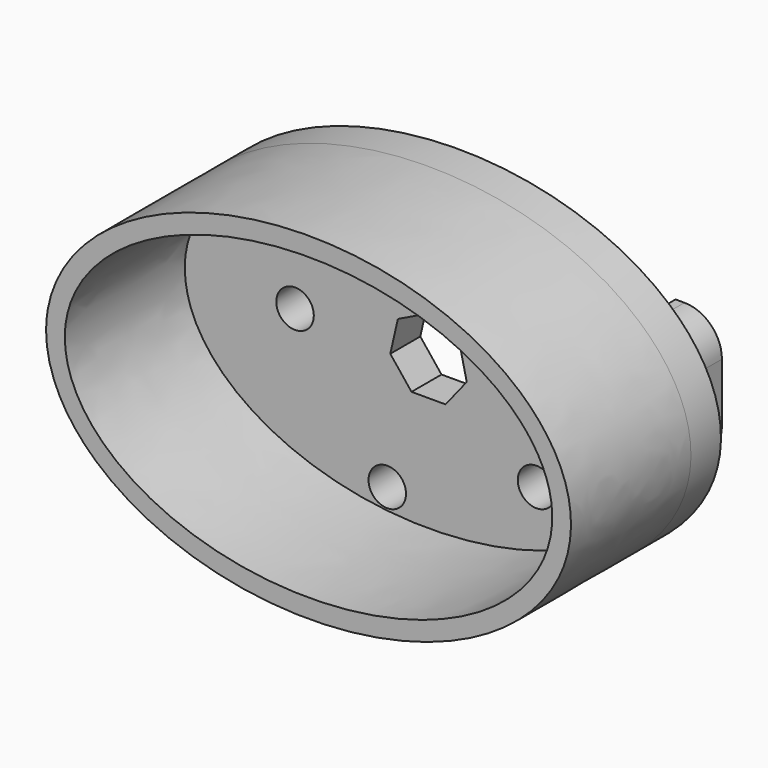
from build123d import *

# Parameters (mm, degrees)
F1_DEPTH  = 5
F3_DEPTH  = 20
F4_R      = 2.5
F6_DEPTH  = 25.0010001
F8_DEPTH  = 25.0010001
F10_DEPTH = 8


with BuildPart() as f1:
    # F0 (on Front) → F1 (new body)
    with BuildSketch(Plane.XZ):
        with BuildLine():
            add(Edge.make_bspline(
                [(-35, 0), (-35, -38.9711431703), (17.5, -19.4855715851), (70, 0), (17.5, 19.4855715851), (-35, 38.9711431703), (-35, 0)],
                knots=[0, 0, 0, 2.0943951024, 2.0943951024, 4.1887902048, 4.1887902048, 6.2831853072, 6.2831853072, 6.2831853072], degree=2, weights=[1, 0.5, 1, 0.5, 1, 0.5, 1]))
        make_face()
    extrude(amount=F1_DEPTH)

    # F2 (on face) → F3 (join)
    with BuildSketch(Plane.XZ.offset(5)):
        with BuildLine():
            add(Edge.make_bspline(
                [(-35, 0), (-35, -38.9711431703), (17.5, -19.4855715851), (70, 0), (17.5, 19.4855715851), (-35, 38.9711431703), (-35, 0)],
                knots=[0, 0, 0, 2.0943951024, 2.0943951024, 4.1887902048, 4.1887902048, 6.2831853072, 6.2831853072, 6.2831853072], degree=2, weights=[1, 0.5, 1, 0.5, 1, 0.5, 1]))
        make_face()
        with BuildLine():
            add(Edge.make_bspline(
                [(-32.5, 0), (-32.5, -34.6410161514), (16.25, -17.3205080757), (65, 0), (16.25, 17.3205080757), (-32.5, 34.6410161514), (-32.5, 0)],
                knots=[0, 0, 0, 2.0943951024, 2.0943951024, 4.1887902048, 4.1887902048, 6.2831853072, 6.2831853072, 6.2831853072], degree=2, weights=[1, 0.5, 1, 0.5, 1, 0.5, 1]))
        make_face(mode=Mode.SUBTRACT)
    extrude(amount=F3_DEPTH)

    # F4 (on Front) → F6 (cut, through all)
    with BuildSketch(Plane.XZ):
        with Locations((-5.500127657, -16.9276523422)):
            Circle(F4_R)
        with Locations((14.3995211484, -10.4618644972)):
            Circle(F4_R)
        with Locations((14.3995211484, 10.4618644972)):
            Circle(F4_R)
        with Locations((-5.500127657, 16.9276523422)):
            Circle(F4_R)
        with Locations((-17.7987869829, 0)):
            Circle(F4_R)
    extrude(amount=F6_DEPTH, mode=Mode.SUBTRACT)

    # F7 (on face) → F8 (cut, through all)
    with BuildSketch(Plane(origin=(0, 0, 0), x_dir=(-1, 0, 0), z_dir=(0, 1, 0))):
        Polygon((-2.268103212, -4.7097648494), (2.268103212, -4.7097648494), (5.0963816565, -1.1632158561), (4.0869807664, 3.2592584021), (0, 5.2274446068), (-4.0869807664, 3.2592584021), (-5.0963816565, -1.1632158561), align=None)
    extrude(amount=-F8_DEPTH, mode=Mode.SUBTRACT)

    # F9 (on face) → F10 (join)
    with BuildSketch(Plane(origin=(0, 0, 0), x_dir=(-1, 0, 0), z_dir=(0, 1, 0))):
        with BuildLine():
            Line((-22.5409846753, 8.9228181168), (-23.7251863629, 8.9228181168))
            ThreePointArc((-23.7251863629, 8.9228181168), (-27.2607202688, 7.4583520228), (-28.7251863629, 3.9228181168))
            Line((-28.7251863629, 3.9228181168), (-28.7251863629, -3.9228181168))
            ThreePointArc((-28.7251863629, -3.9228181168), (-27.2607202688, -7.4583520228), (-23.7251863629, -8.9228181168))
            Line((-23.7251863629, -8.9228181168), (-22.5409846753, -8.9228181168))
            Line((-22.5409846753, -8.9228181168), (-22.5409846753, 8.9228181168))
        make_face()
        with BuildLine():
            Line((24.2001869529, 8.9228181168), (23.4282631427, 8.9228181168))
            Line((23.4282631427, 8.9228181168), (23.4282631427, -8.9228181168))
            Line((23.4282631427, -8.9228181168), (24.2001869529, -8.9228181168))
            ThreePointArc((24.2001869529, -8.9228181168), (27.7357208589, -7.4583520228), (29.2001869529, -3.9228181168))
            Line((29.2001869529, -3.9228181168), (29.2001869529, 3.9228181168))
            ThreePointArc((29.2001869529, 3.9228181168), (27.7357208589, 7.4583520228), (24.2001869529, 8.9228181168))
        make_face()
    extrude(amount=F10_DEPTH)


solid = f1.part
